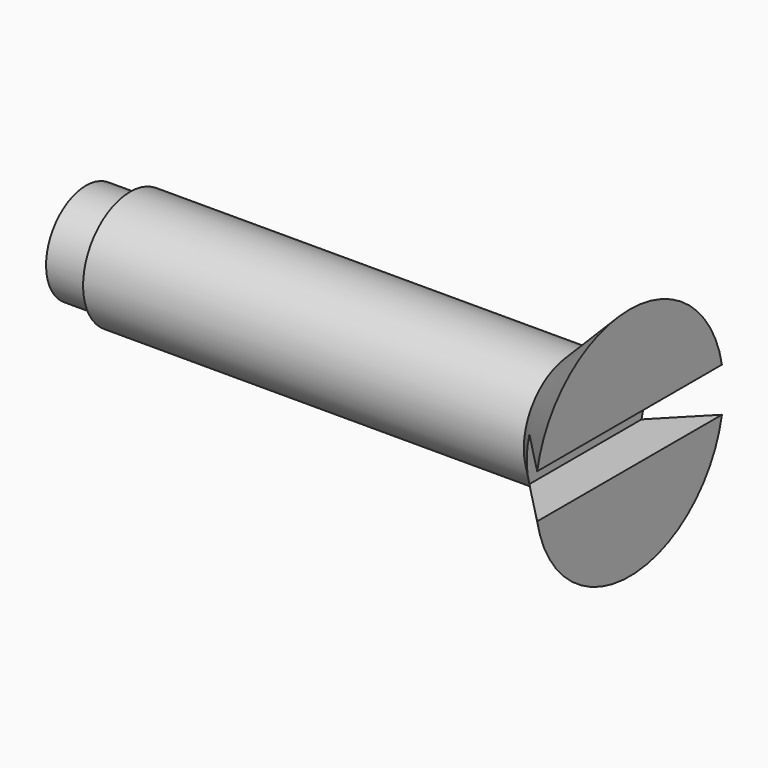
from build123d import *

# Parameters (mm, degrees)
F3_DEPTH = 3


with BuildPart() as f1:
    # F0 (on Front) → F1 (revolve)
    with BuildSketch(Plane.XZ):
        Polygon((34.962991, 4), (34.962991, 0), (38.962991, 0), (38.962991, 8), align=None)
        Polygon((4.962991, 3.4), (4.962991, 0), (34.962991, 0), (34.962991, 4), (4.962991, 4), align=None)
        Polygon((1.962991, 3.4), (0, 0), (4.962991, 0), (4.962991, 3.4), align=None)
    revolve(axis=Axis((9.715057, 0, 0), (1, 0, 0)))

    # F2 (on face) → F3 (cut)
    with BuildSketch(Plane.YZ.offset(38.962991)):
        with BuildLine():
            Line((7.858117, 1.5), (-7.858117, 1.5))
            ThreePointArc((-7.858117, 1.5), (-8, 0), (-7.858117, -1.5))
            Line((-7.858117, -1.5), (7.858117, -1.5))
            ThreePointArc((7.858117, -1.5), (7.96445, -0.753348), (8, 0))
            ThreePointArc((8, 0), (7.96445, 0.753348), (7.858117, 1.5))
        make_face()
    extrude(amount=-F3_DEPTH, mode=Mode.SUBTRACT)


solid = f1.part
